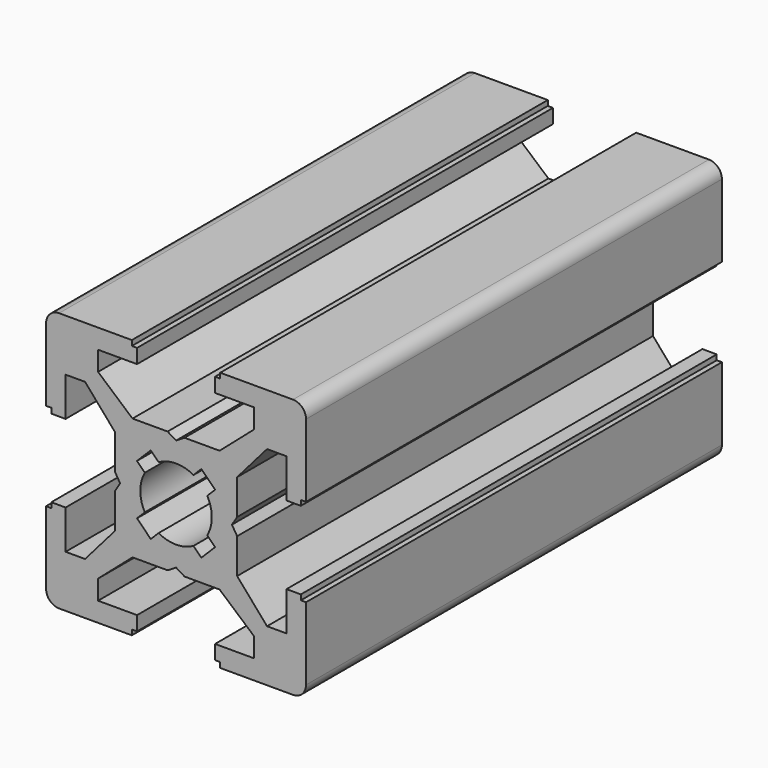
from build123d import *

# Parameters (mm, degrees)
PAD_DEPTH          = 40
POCKET_DEPTH       = 380
POLARPATTERN_COUNT = 4
POCKET001_DEPTH    = 380


with BuildPart() as part:
    # Sketch → Pad (new body)
    with BuildSketch(Plane.XZ):
        with BuildLine():
            Line((-9, 10), (9, 10))
            ThreePointArc((10, 9), (9.707107, 9.707107), (9, 10))
            Line((10, 9), (10, -9))
            ThreePointArc((9, -10), (9.707107, -9.707107), (10, -9))
            Line((9, -10), (-9, -10))
            ThreePointArc((-10, -9), (-9.707107, -9.707107), (-9, -10))
            Line((-10, -9), (-10, 9))
            ThreePointArc((-9, 10), (-9.707107, 9.707107), (-10, 9))
        make_face()
    extrude(amount=PAD_DEPTH)

    # Sketch001 (on Face10 of Pad) → Pocket (cut)
    with BuildSketch(Plane.XZ.offset(40)):
        Polygon((-3.4, 10), (-3.4, 9.6), (-3, 9.6), (-3, 8.5), (-6, 8.5), (-6, 7), (-3.35, 4.7), (-0.65, 4.7), (0, 4.3), (0.65, 4.7), (3.35, 4.7), (6, 7), (6, 8.5), (3, 8.5), (3, 9.6), (3.4, 9.6), (3.4, 10), align=None)
    pocket = extrude(amount=-POCKET_DEPTH, mode=Mode.SUBTRACT)

    # PolarPattern: Pocket ×4 about axis
    polarpattern_axis = Axis((0, -40, 0), (0, -1, 0))
    for i in range(1, POLARPATTERN_COUNT):
        add(pocket.rotate(polarpattern_axis, i * 360 / POLARPATTERN_COUNT), mode=Mode.SUBTRACT)

    # Sketch002 (on Face4 of PolarPattern) → Pocket001 (cut)
    with BuildSketch(Plane.XZ.offset(40)):
        with BuildLine():
            ThreePointArc((1.340499, 2.401159), (0, 2.75), (-1.340499, 2.401159))
            Line((-1.944544, 3.005204), (-1.340499, 2.401159))
            Line((-3.005204, 1.944544), (-1.944544, 3.005204))
            Line((-2.401159, 1.340499), (-3.005204, 1.944544))
            ThreePointArc((-2.401159, 1.340499), (-2.75, 0), (-2.401159, -1.340499))
            Line((-3.005204, -1.944544), (-2.401159, -1.340499))
            Line((-1.944544, -3.005204), (-3.005204, -1.944544))
            Line((-1.340499, -2.401159), (-1.944544, -3.005204))
            ThreePointArc((-1.340499, -2.401159), (0, -2.75), (1.340499, -2.401159))
            Line((1.944544, -3.005204), (1.340499, -2.401159))
            Line((3.005204, -1.944544), (1.944544, -3.005204))
            Line((2.401159, -1.340499), (3.005204, -1.944544))
            ThreePointArc((2.401159, -1.340499), (2.75, 0), (2.401159, 1.340499))
            Line((2.401159, 1.340499), (3.005204, 1.944544))
            Line((3.005204, 1.944544), (1.944544, 3.005204))
            Line((1.944544, 3.005204), (1.340499, 2.401159))
        make_face()
    extrude(amount=-POCKET001_DEPTH, mode=Mode.SUBTRACT)


solid = part.part
